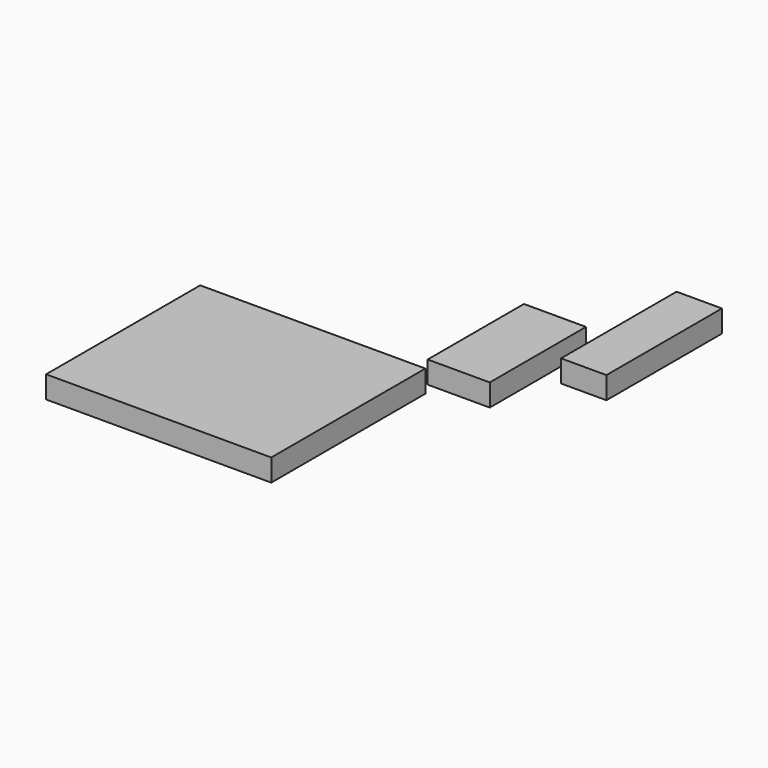
from build123d import *

# Parameters (mm, degrees)
F0_W     = 257.982552
F0_H     = 220.679596
F0_W_2   = 71.109965
F0_H_2   = 137.809277
F0_W_3   = 51.983193
F0_H_3   = 165.379643
F1_DEPTH = 25.4


with BuildPart() as f1:
    # F0 (on Top) → F1 (new body)
    with BuildSketch(Plane.XY):
        with Locations((-190.788895, -201.586984)):
            Rectangle(F0_W, F0_H)
        with Locations((-35.554983, -7.383763)):
            Rectangle(F0_W_2, F0_H_2)
        with Locations((46.651102, 82.689821)):
            Rectangle(F0_W_3, F0_H_3)
    extrude(amount=F1_DEPTH)


solid = f1.part
